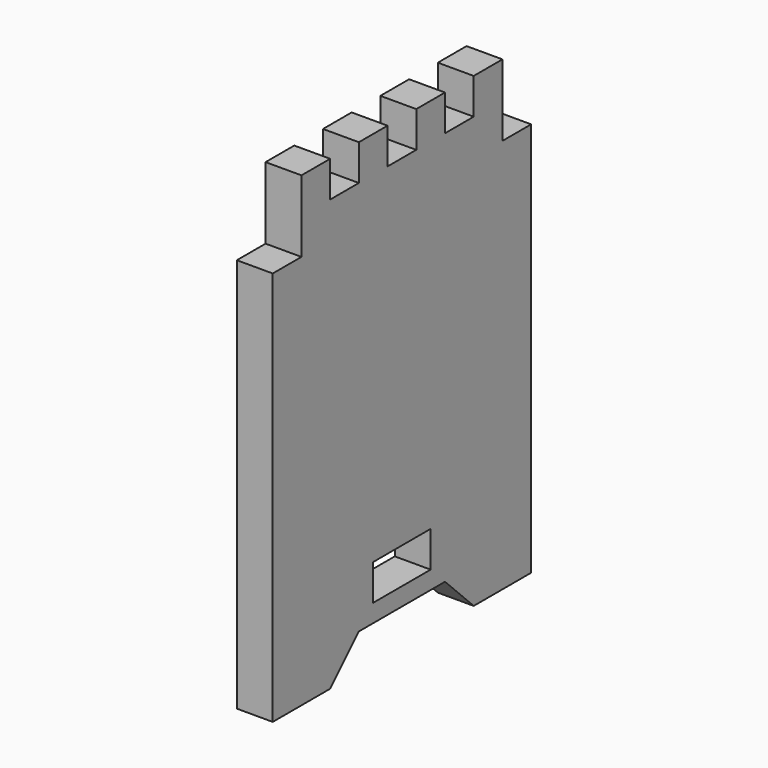
from build123d import *

# Parameters (mm, degrees)
F0_W     = 20
F0_H     = 10
F1_DEPTH = 10


with BuildPart() as f1:
    # F0 (on Right) → F1 (new body)
    with BuildSketch(Plane.YZ):
        Polygon((25, -65), (45, -65), (45, 45), (35.004254, 45), (35.004254, 65), (24.995159, 65), (24.995159, 55), (14.995159, 55), (14.995159, 65), (4.986058, 65), (4.986058, 55), (-5.013942, 55), (-5.013942, 65), (-15, 65), (-15, 55), (-25, 55), (-25, 65), (-35, 65), (-35, 45), (-45, 45), (-45, -65), (-25, -65), (-15, -55), (15, -55), align=None)
        with Locations((0, -45)):
            Rectangle(F0_W, F0_H, mode=Mode.SUBTRACT)
    extrude(amount=F1_DEPTH)


solid = f1.part
